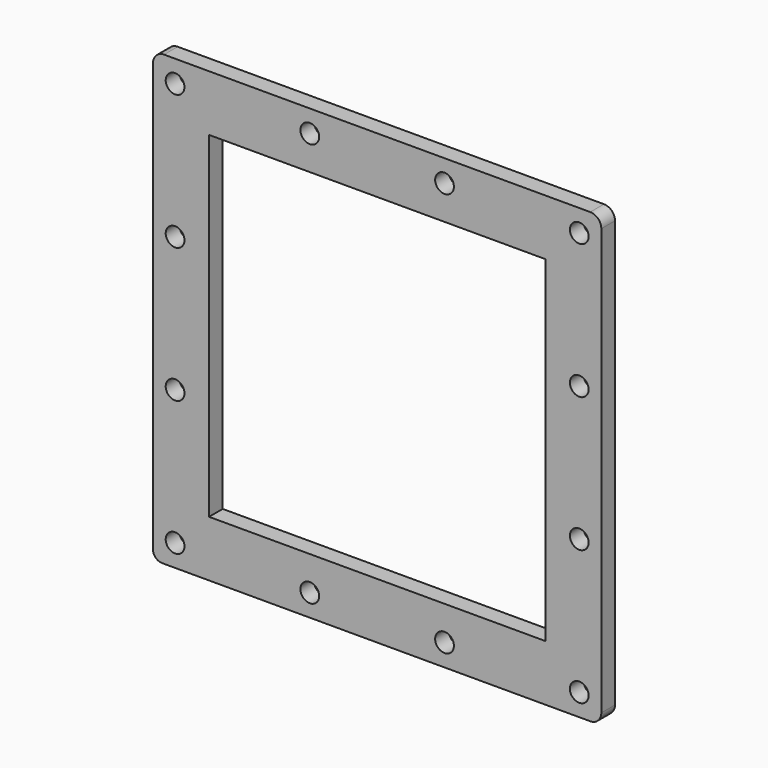
from build123d import *

# Parameters (mm, degrees)
F0_R     = 8.5
F0_W     = 304.8
F0_H     = 304.8
F1_DEPTH = 15.5


with BuildPart() as f1:
    # F0 (on Front) → F1 (new body)
    with BuildSketch(Plane.XZ):
        with BuildLine():
            ThreePointArc((-306.680941, 234.30534), (-313.752009, 231.376408), (-316.680941, 224.30534))
            Line((-316.680941, 224.30534), (-316.680941, -163.899746))
            ThreePointArc((-316.680941, -163.899746), (-314.280706, -169.694425), (-308.486027, -172.09466))
            Line((-308.486027, -172.09466), (79.719059, -172.09466))
            ThreePointArc((79.719059, -172.09466), (86.790127, -169.165728), (89.719059, -162.09466))
            Line((89.719059, -162.09466), (89.719059, 224.30534))
            ThreePointArc((89.719059, 224.30534), (86.790127, 231.376408), (79.719059, 234.30534))
            Line((79.719059, 234.30534), (-306.680941, 234.30534))
        make_face()
        with Locations((-296.680941, -152.09466)):
            Circle(F0_R, mode=Mode.SUBTRACT)
        with Locations((-174.547941, -152.09466)):
            Circle(F0_R, mode=Mode.SUBTRACT)
        with Locations((-296.680941, -29.96166)):
            Circle(F0_R, mode=Mode.SUBTRACT)
        with Locations((-52.414941, -152.09466)):
            Circle(F0_R, mode=Mode.SUBTRACT)
        with Locations((69.719059, -152.09466)):
            Circle(F0_R, mode=Mode.SUBTRACT)
        with Locations((-113.480941, 31.10534)):
            Rectangle(F0_W, F0_H, mode=Mode.SUBTRACT)
        with Locations((69.719059, -29.96166)):
            Circle(F0_R, mode=Mode.SUBTRACT)
        with Locations((-296.680941, 92.17134)):
            Circle(F0_R, mode=Mode.SUBTRACT)
        with Locations((-296.680941, 214.30534)):
            Circle(F0_R, mode=Mode.SUBTRACT)
        with Locations((-174.546941, 214.30534)):
            Circle(F0_R, mode=Mode.SUBTRACT)
        with Locations((69.719059, 92.17134)):
            Circle(F0_R, mode=Mode.SUBTRACT)
        with Locations((-52.413941, 214.30534)):
            Circle(F0_R, mode=Mode.SUBTRACT)
        with Locations((69.719059, 214.30434)):
            Circle(F0_R, mode=Mode.SUBTRACT)
    extrude(amount=F1_DEPTH)


solid = f1.part
